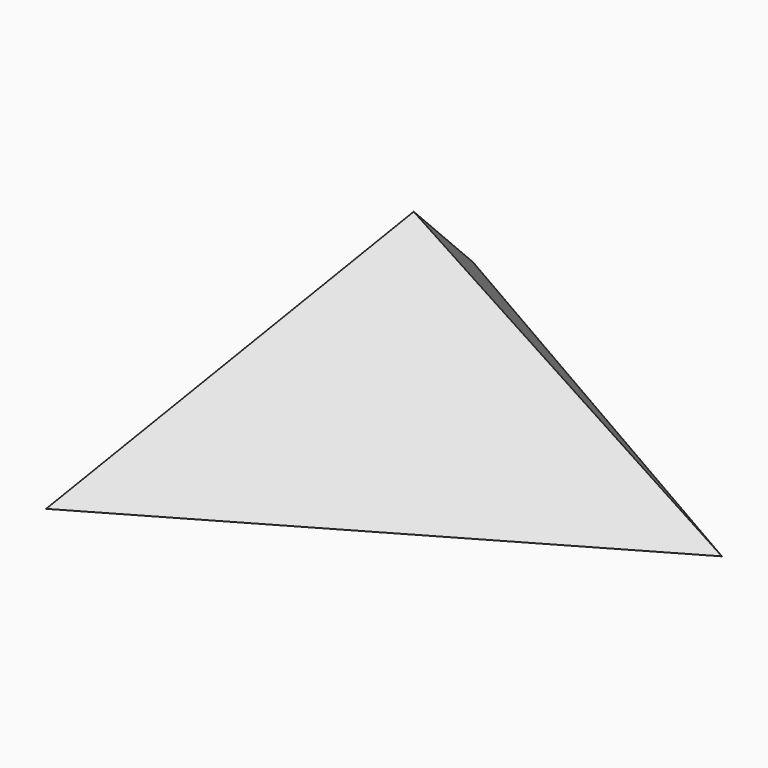
from build123d import *


with BuildPart() as f3:
    # F0 (on Top) → F3 section 0
    with BuildSketch(Plane.XY, mode=Mode.PRIVATE) as f3_s0:
        Polygon((-94.784237, -164.171115), (189.568475, 0), (-94.784237, 164.171115), align=None)
    loft([f3_s0.sketch, Vertex(0, 0, 125)])


solid = f3.part
